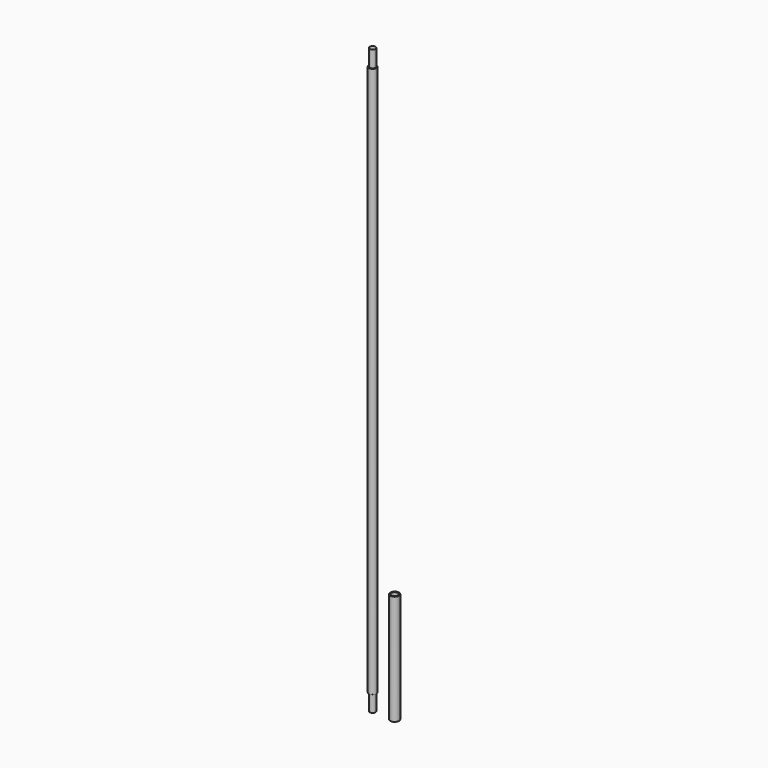
from build123d import *

# Parameters (mm, degrees)
F3_R     = 5.376
F4_DEPTH = 1060
F6_R     = 7
F7_DEPTH = 1000
F3_R_2   = 8
F3_R_3   = 6
F8_DEPTH = 200


with BuildPart() as f4:
    # F3 (on Top) → F4 (new body)
    with BuildSketch(Plane.XY):
        Circle(F3_R)
    extrude(amount=F4_DEPTH)

    # F6 (on offset) → F7 (join)
    with BuildSketch(Plane.XY.offset(30)):
        Circle(F6_R)
    extrude(amount=F7_DEPTH)


with BuildPart() as f8:
    # F3 (on Top) → F8 (new body)
    with BuildSketch(Plane.XY):
        with Locations((40, 0)):
            Circle(F3_R_2)
        with Locations((40, 0)):
            Circle(F3_R_3, mode=Mode.SUBTRACT)
    extrude(amount=F8_DEPTH)


solid = Compound([f4.part, f8.part])
